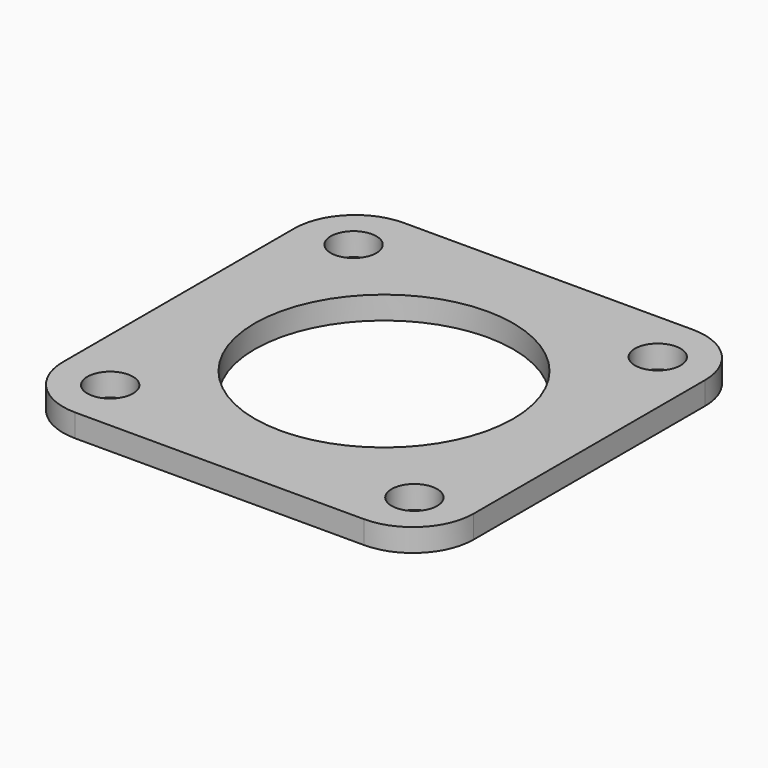
from build123d import *

# Parameters (mm, degrees)
F0_R     = 1.5
F0_R_2   = 8.5
F1_DEPTH = 1.5


with BuildPart() as f1:
    # F0 (on Top) → F1 (new body)
    with BuildSketch(Plane.XY):
        with BuildLine():
            ThreePointArc((13.5, 9.5), (12.328427, 12.328427), (9.5, 13.5))
            Line((9.5, 13.5), (-9.5, 13.5))
            ThreePointArc((-9.5, 13.5), (-12.328427, 12.328427), (-13.5, 9.5))
            Line((-13.5, 9.5), (-13.5, -9.5))
            ThreePointArc((-13.5, -9.5), (-12.328427, -12.328427), (-9.5, -13.5))
            Line((-9.5, -13.5), (9.5, -13.5))
            ThreePointArc((9.5, -13.5), (12.328427, -12.328427), (13.5, -9.5))
            Line((13.5, -9.5), (13.5, 9.5))
        make_face()
        with Locations((-10, -10)):
            Circle(F0_R, mode=Mode.SUBTRACT)
        with Locations((10, -10)):
            Circle(F0_R, mode=Mode.SUBTRACT)
        with Locations((-10, 10)):
            Circle(F0_R, mode=Mode.SUBTRACT)
        Circle(F0_R_2, mode=Mode.SUBTRACT)
        with Locations((10, 10)):
            Circle(F0_R, mode=Mode.SUBTRACT)
    extrude(amount=F1_DEPTH)


solid = f1.part
